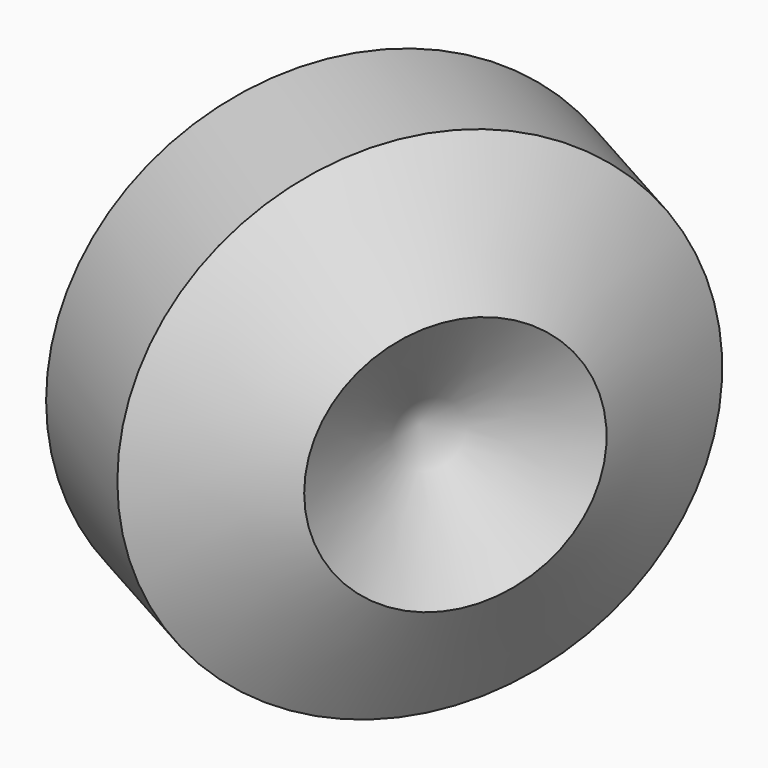
from build123d import *

# Parameters (mm, degrees)
F2_T = -2.54


with BuildPart() as f1:
    # F0 (on Top) → F1 (revolve)
    with BuildSketch(Plane.XY):
        Polygon((-0.917275699, 61.8508926201), (-54.0230821053, 30.1310622525), (-53.1058064063, -31.7198303677), (0.917275699, -61.8508926201), (54.0230821053, -30.1310622525), (53.1058064063, 31.7198303677), align=None)
    revolve(axis=Axis((26.0942653536, 46.7853614939, 0), (0.8733445845, -0.4871029015, 0)))

    # F2 (hollow: no face is removed)
    offset(amount=F2_T, mode=Mode.SUBTRACT)


solid = f1.part
